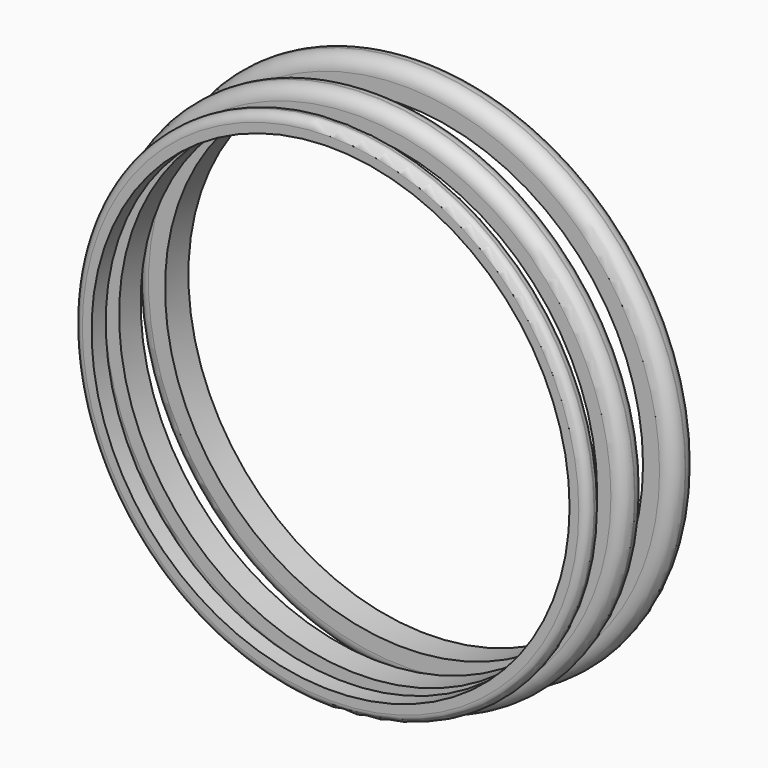
from build123d import *

# Parameters (mm, degrees)
F0_R     = 334
F0_R_2   = 311
F1_DEPTH = 11.5
F2_R     = 11
F4_R     = 346
F4_R_2   = 311
F5_DEPTH = 17.5
F6_R     = 17
F8_R     = 351
F8_R_2   = 311
F9_DEPTH = 19
F10_R    = 18.5


with BuildPart() as f1:
    # F0 (on Front) → F1 (new body, symmetric)
    with BuildSketch(Plane.XZ):
        Circle(F0_R)
        Circle(F0_R_2, mode=Mode.SUBTRACT)
    extrude(amount=F1_DEPTH, both=True)

    # F2
    f2_edges = [f1.edges().sort_by_distance(p)[0] for p in [
        (-334, -11.5, 0),
        (-334, 11.5, 0),
    ]]
    fillet(f2_edges, radius=F2_R)


with BuildPart() as f5:
    # F4 (on offset) → F5 (new body, symmetric)
    with BuildSketch(Plane.XZ.offset(-50.8)):
        Circle(F4_R)
        Circle(F4_R_2, mode=Mode.SUBTRACT)
    extrude(amount=F5_DEPTH, both=True)

    # F6
    f6_edges = [f5.edges().sort_by_distance(p)[0] for p in [
        (-346, 33.3, 0),
        (-346, 68.3, 0),
    ]]
    fillet(f6_edges, radius=F6_R)


with BuildPart() as f9:
    # F8 (on offset) → F9 (new body, symmetric)
    with BuildSketch(Plane.XZ.offset(-127)):
        Circle(F8_R)
        Circle(F8_R_2, mode=Mode.SUBTRACT)
    extrude(amount=F9_DEPTH, both=True)

    # F10
    f10_edges = [f9.edges().sort_by_distance(p)[0] for p in [
        (-351, 108, 0),
        (-351, 146, 0),
    ]]
    fillet(f10_edges, radius=F10_R)


solid = Compound([f1.part, f5.part, f9.part])
